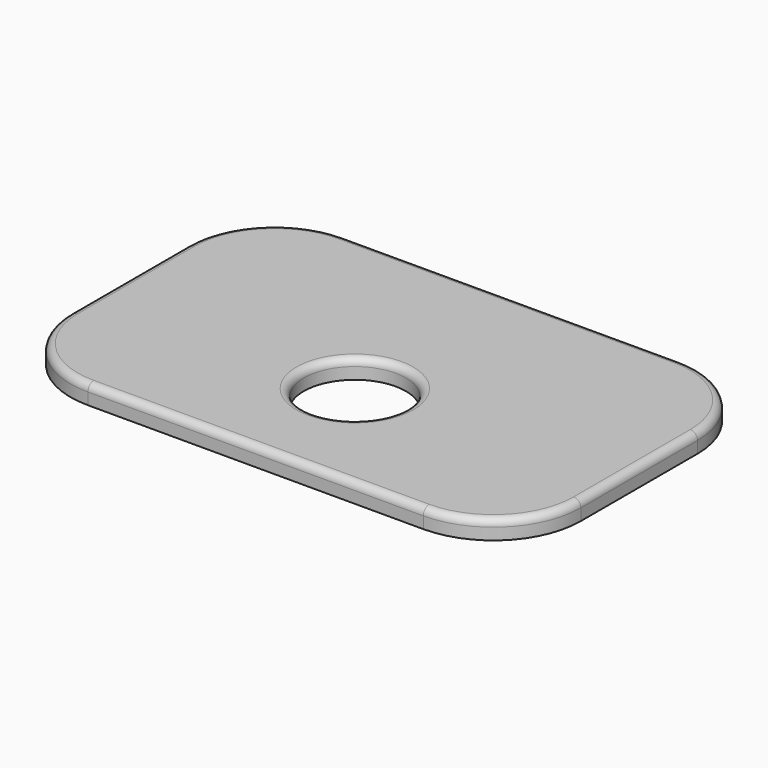
from build123d import *

# Parameters (mm, degrees)
F0_W     = 35
F0_H     = 22
F0_R     = 3.5
F1_DEPTH = 1.3
F2_R     = 6
F3_R     = 0.5


with BuildPart() as f1:
    # F0 (on Top) → F1 (new body)
    with BuildSketch(Plane.XY):
        with Locations((0, 2.5)):
            Rectangle(F0_W, F0_H)
        Circle(F0_R, mode=Mode.SUBTRACT)
    extrude(amount=F1_DEPTH)

    # F2
    f2_edges = [f1.edges().sort_by_distance(p)[0] for p in [
        (17.5, 13.5, 0.65),
        (-17.5, 13.5, 0.65),
        (-17.5, -8.5, 0.65),
        (17.5, -8.5, 0.65),
    ]]
    fillet(f2_edges, radius=F2_R)

    # F3
    f3_edges = [f1.edges().sort_by_distance(p)[0] for p in [
        (0, 13.5, 1.3),
        (15.742641, 11.742641, 1.3),
        (-15.742641, 11.742641, 1.3),
        (17.5, 2.5, 1.3),
        (-17.5, 2.5, 1.3),
        (15.742641, -6.742641, 1.3),
        (-15.742641, -6.742641, 1.3),
        (0, -8.5, 1.3),
        (-3.5, 0, 1.3),
    ]]
    fillet(f3_edges, radius=F3_R)


solid = f1.part
